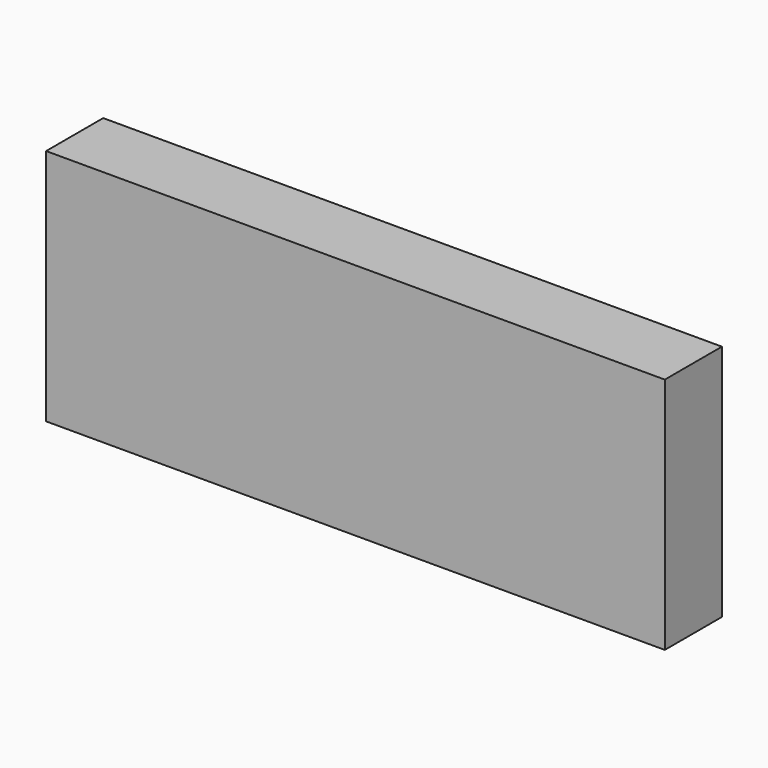
from build123d import *

# Parameters (mm, degrees)
SKETCH_W      = 130
SKETCH_H      = 15
EXTRUDE_DEPTH = 50


with BuildPart() as part:
    # Sketch → Extrude (new body)
    with BuildSketch(Plane.XY):
        Rectangle(SKETCH_W, SKETCH_H)
    extrude(amount=EXTRUDE_DEPTH)


solid = part.part
